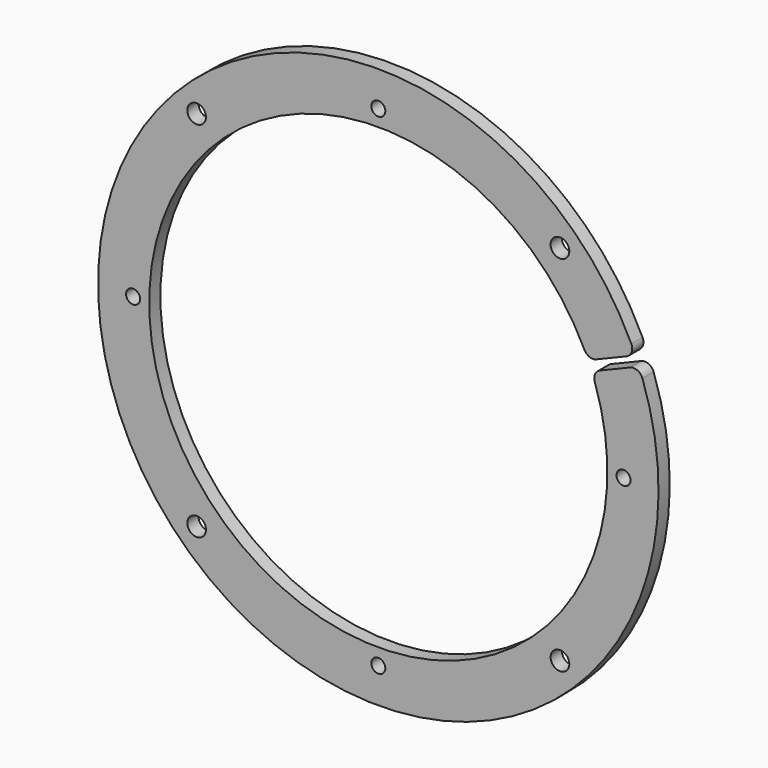
from build123d import *

# Parameters (mm, degrees)
F0_R     = 60
F0_R_2   = 49.05
F1_DEPTH = 3
F2_R     = 1.5
F2_R_2   = 2
F3_DEPTH = 3.001
F4_R     = 2


with BuildPart() as f1:
    # F0 (on Front) → F1 (new body)
    with BuildSketch(Plane.XZ):
        Circle(F0_R)
        Circle(F0_R_2, mode=Mode.SUBTRACT)
    extrude(amount=F1_DEPTH)

    # F2 (on face) → F3 (cut, through all)
    with BuildSketch(Plane.XZ.offset(3)):
        with Locations((-52.5, 0)):
            Circle(F2_R)
        with Locations((0, 52.5)):
            Circle(F2_R)
        with Locations((52.5, 0)):
            Circle(F2_R)
        with Locations((0, -52.5)):
            Circle(F2_R)
        Polygon((59.6694861809, 25.7983026362), (40.3142099748, 17.7810847282), (40.6968934071, 16.8572051957), (41.0795768395, 15.9333256632), (60.4348530456, 23.9505435712), (60.0521696132, 24.8744231037), align=None)
        with Locations((-38.8908729653, 38.8908729653)):
            Circle(F2_R_2)
        with Locations((-38.8908729653, -38.8908729653)):
            Circle(F2_R_2)
        with Locations((38.8908729653, -38.8908729653)):
            Circle(F2_R_2)
        with Locations((38.8908729653, 38.8908729653)):
            Circle(F2_R_2)
    extrude(amount=-F3_DEPTH, mode=Mode.SUBTRACT)

    # F4
    f4_edges = [f1.edges().sort_by_distance(p)[0] for p in [
        (55.042389, -1.5, 23.881696),
        (55.807756, -1.5, 22.033937),
        (44.924189, -1.5, 19.690601),
        (45.689556, -1.5, 17.842841),
    ]]
    fillet(f4_edges, radius=F4_R)


solid = f1.part
